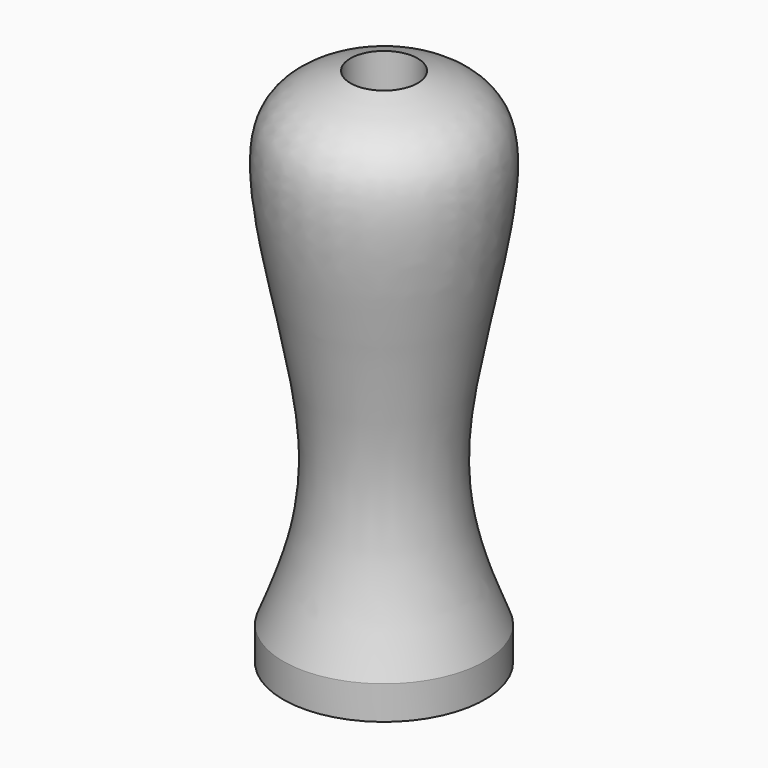
from build123d import *


with BuildPart() as f1:
    # F0 (on Front) → F1 (revolve)
    with BuildSketch(Plane.XZ):
        with BuildLine():
            Line((-38.1, 0), (0, 0))
            Line((0, 0), (0, 177.8))
            Line((0, 177.8), (-12.7, 177.8))
            Line((-12.7, 177.8), (-12.7, 196.85))
            add(Edge.make_bspline(
                [(-38.1, 12.7), (-30.8103578773, 31.0683773694), (-14.3544760591, 72.5337664922), (-54.0122946409, 182.9106513757), (-23.5836814631, 193.1776929653), (-12.7, 196.85)],
                knots=[0, 0, 0, 0, 0.3381073204, 0.763254768, 1, 1, 1, 1], degree=3))
            Line((-38.1, 12.7), (-38.1, 0))
        make_face()
    revolve(axis=Axis((0, 0, 187.325), (0, 0, 1)))


solid = f1.part
